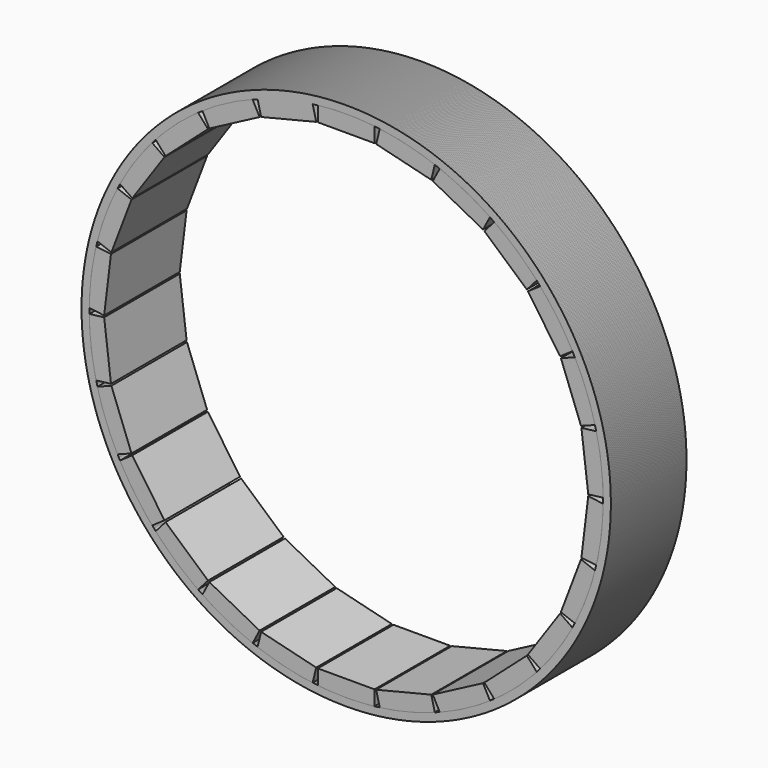
from build123d import *

# Parameters (mm, degrees)
F0_R     = 70
F1_DEPTH = 25
F2_COUNT = 26


with BuildPart() as f1:
    # F0 (on Front) → F1 (new body)
    with BuildSketch(Plane.XZ):
        with BuildLine():
            ThreePointArc((-7.5, 67.585132), (-45.354162, -50.66557), (68, 0))
            ThreePointArc((68, 0), (50.66557, 45.354162), (7.5, 67.585132))
            Line((7.5, 67.585132), (7.5, 63.585132))
            Line((7.5, 63.585132), (0, 63.585132))
            Line((0, 63.585132), (-7.5, 63.585132))
            Line((-7.5, 63.585132), (-7.5, 67.585132))
        make_face()
        Circle(F0_R)
        with BuildLine():
            ThreePointArc((7.5, 67.585132), (50.66557, 45.354162), (68, 0))
            ThreePointArc((68, 0), (-45.354162, -50.66557), (-7.5, 67.585132))
            ThreePointArc((-7.5, 67.585132), (-3.755733, 67.896204), (0, 68))
            ThreePointArc((0, 68), (3.755733, 67.896204), (7.5, 67.585132))
        make_face(mode=Mode.SUBTRACT)
        with BuildLine():
            ThreePointArc((0, 68), (-3.755733, 67.896204), (-7.5, 67.585132))
            Line((-7.5, 67.585132), (-7.5, 63.585132))
            Line((-7.5, 63.585132), (0, 63.585132))
            Line((0, 63.585132), (0, 68))
        make_face()
        with BuildLine():
            Line((7.5, 63.585132), (7.5, 67.585132))
            ThreePointArc((7.5, 67.585132), (3.755733, 67.896204), (0, 68))
            Line((0, 68), (0, 63.585132))
            Line((0, 63.585132), (7.5, 63.585132))
        make_face()
    extrude(amount=F1_DEPTH)


with BuildPart() as f2_1:
    # F2: instance of F1
    add(f1.part.rotate(Axis((0, 0, 0), (0, 1, 0)), 1 * 360 / F2_COUNT))


with BuildPart() as f2_2:
    # F2: instance of F1
    add(f1.part.rotate(Axis((0, 0, 0), (0, 1, 0)), 2 * 360 / F2_COUNT))


with BuildPart() as f2_3:
    # F2: instance of F1
    add(f1.part.rotate(Axis((0, 0, 0), (0, 1, 0)), 3 * 360 / F2_COUNT))


with BuildPart() as f2_4:
    # F2: instance of F1
    add(f1.part.rotate(Axis((0, 0, 0), (0, 1, 0)), 4 * 360 / F2_COUNT))


with BuildPart() as f2_5:
    # F2: instance of F1
    add(f1.part.rotate(Axis((0, 0, 0), (0, 1, 0)), 5 * 360 / F2_COUNT))


with BuildPart() as f2_6:
    # F2: instance of F1
    add(f1.part.rotate(Axis((0, 0, 0), (0, 1, 0)), 6 * 360 / F2_COUNT))


with BuildPart() as f2_7:
    # F2: instance of F1
    add(f1.part.rotate(Axis((0, 0, 0), (0, 1, 0)), 7 * 360 / F2_COUNT))


with BuildPart() as f2_8:
    # F2: instance of F1
    add(f1.part.rotate(Axis((0, 0, 0), (0, 1, 0)), 8 * 360 / F2_COUNT))


with BuildPart() as f2_9:
    # F2: instance of F1
    add(f1.part.rotate(Axis((0, 0, 0), (0, 1, 0)), 9 * 360 / F2_COUNT))


with BuildPart() as f2_10:
    # F2: instance of F1
    add(f1.part.rotate(Axis((0, 0, 0), (0, 1, 0)), 10 * 360 / F2_COUNT))


with BuildPart() as f2_11:
    # F2: instance of F1
    add(f1.part.rotate(Axis((0, 0, 0), (0, 1, 0)), 11 * 360 / F2_COUNT))


with BuildPart() as f2_12:
    # F2: instance of F1
    add(f1.part.rotate(Axis((0, 0, 0), (0, 1, 0)), 12 * 360 / F2_COUNT))


with BuildPart() as f2_13:
    # F2: instance of F1
    add(f1.part.rotate(Axis((0, 0, 0), (0, 1, 0)), 13 * 360 / F2_COUNT))


with BuildPart() as f2_14:
    # F2: instance of F1
    add(f1.part.rotate(Axis((0, 0, 0), (0, 1, 0)), 14 * 360 / F2_COUNT))


with BuildPart() as f2_15:
    # F2: instance of F1
    add(f1.part.rotate(Axis((0, 0, 0), (0, 1, 0)), 15 * 360 / F2_COUNT))


with BuildPart() as f2_16:
    # F2: instance of F1
    add(f1.part.rotate(Axis((0, 0, 0), (0, 1, 0)), 16 * 360 / F2_COUNT))


with BuildPart() as f2_17:
    # F2: instance of F1
    add(f1.part.rotate(Axis((0, 0, 0), (0, 1, 0)), 17 * 360 / F2_COUNT))


with BuildPart() as f2_18:
    # F2: instance of F1
    add(f1.part.rotate(Axis((0, 0, 0), (0, 1, 0)), 18 * 360 / F2_COUNT))


with BuildPart() as f2_19:
    # F2: instance of F1
    add(f1.part.rotate(Axis((0, 0, 0), (0, 1, 0)), 19 * 360 / F2_COUNT))


with BuildPart() as f2_20:
    # F2: instance of F1
    add(f1.part.rotate(Axis((0, 0, 0), (0, 1, 0)), 20 * 360 / F2_COUNT))


with BuildPart() as f2_21:
    # F2: instance of F1
    add(f1.part.rotate(Axis((0, 0, 0), (0, 1, 0)), 21 * 360 / F2_COUNT))


with BuildPart() as f2_22:
    # F2: instance of F1
    add(f1.part.rotate(Axis((0, 0, 0), (0, 1, 0)), 22 * 360 / F2_COUNT))


with BuildPart() as f2_23:
    # F2: instance of F1
    add(f1.part.rotate(Axis((0, 0, 0), (0, 1, 0)), 23 * 360 / F2_COUNT))


with BuildPart() as f2_24:
    # F2: instance of F1
    add(f1.part.rotate(Axis((0, 0, 0), (0, 1, 0)), 24 * 360 / F2_COUNT))


with BuildPart() as f2_25:
    # F2: instance of F1
    add(f1.part.rotate(Axis((0, 0, 0), (0, 1, 0)), 25 * 360 / F2_COUNT))


solid = Compound([f1.part, f2_1.part, f2_2.part, f2_3.part, f2_4.part, f2_5.part, f2_6.part, f2_7.part, f2_8.part, f2_9.part, f2_10.part, f2_11.part, f2_12.part, f2_13.part, f2_14.part, f2_15.part, f2_16.part, f2_17.part, f2_18.part, f2_19.part, f2_20.part, f2_21.part, f2_22.part, f2_23.part, f2_24.part, f2_25.part])
